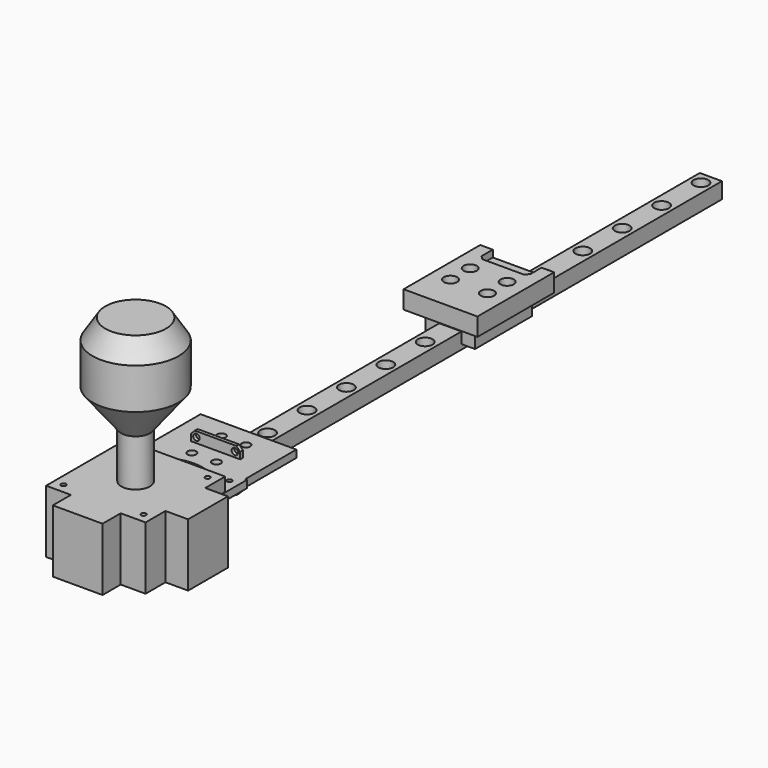
from build123d import *

# Parameters (mm, degrees)
SKETCH_W                = 9
SKETCH_H                = 250
PAD_DEPTH               = 6.5
SKETCH001_R             = 1.75
POCKET_DEPTH            = 6.5
LINEARPATTERN_COUNT     = 13
LINEARPATTERN_PITCH     = 20
SKETCH002_R             = 3
POCKET001_DEPTH         = 3.5
LINEARPATTERN001_COUNT  = 13
LINEARPATTERN001_PITCH  = 20
SKETCH005_W             = 20
SKETCH005_H             = 28.9
SKETCH005_R             = 1.75
PAD002_DEPTH            = 8
SKETCH003_R             = 1
PAD001_DEPTH            = 25.5
BODY003_PLACEMENT_ANGLE = 90
SKETCH010_R             = 1
SKETCH010_R_2           = 1.75
SKETCH010_R_3           = 18.5
PAD005_DEPTH            = 3
BODY004_PLACEMENT_ANGLE = 90
SKETCH016_W             = 30
SKETCH016_H             = 38.9
SKETCH016_R             = 1.75
SKETCH016_R_2           = 1.3
PAD010_DEPTH            = 7.3
SKETCH019_R             = 2.7
POCKET005_DEPTH         = 2.8
SKETCH017_R             = 1.3
PAD008_DEPTH            = 1.4
SKETCH018_W             = 3
SKETCH018_H             = 4.5
PAD009_DEPTH            = 1.2


with BuildPart() as protorail:
    # Sketch → Pad (new body)
    with BuildSketch(Plane.XY):
        with Locations((0, 125)):
            Rectangle(SKETCH_W, SKETCH_H)
    extrude(amount=-PAD_DEPTH)

    # Sketch001 → Pocket (cut)
    with BuildSketch(Plane.XY):
        with Locations((0, 5)):
            Circle(SKETCH001_R)
    pocket = extrude(amount=-POCKET_DEPTH, mode=Mode.SUBTRACT)

    # LinearPattern: Pocket ×13
    with Locations(*[(0, i * LINEARPATTERN_PITCH, 0) for i in range(1, LINEARPATTERN_COUNT)]):
        add(pocket, mode=Mode.SUBTRACT)

    # Sketch002 → Pocket001 (cut)
    with BuildSketch(Plane.XY):
        with Locations((0, 5)):
            Circle(SKETCH002_R)
    pocket001 = extrude(amount=-POCKET001_DEPTH, mode=Mode.SUBTRACT)

    # LinearPattern001: Pocket001 ×13
    with Locations(*[(0, i * LINEARPATTERN001_PITCH, 0) for i in range(1, LINEARPATTERN001_COUNT)]):
        add(pocket001, mode=Mode.SUBTRACT)

    # Sketch005 → Pad002 (join)
    with BuildSketch(Plane.XY.offset(-4.5)):
        with Locations((0, 132.225)):
            Rectangle(SKETCH005_W, SKETCH005_H)
        with Locations((-7.5, 137.225)):
            Circle(SKETCH005_R, mode=Mode.SUBTRACT)
        with Locations((7.5, 137.225)):
            Circle(SKETCH005_R, mode=Mode.SUBTRACT)
        with Locations((7.5, 127.225)):
            Circle(SKETCH005_R, mode=Mode.SUBTRACT)
        with Locations((-7.5, 127.225)):
            Circle(SKETCH005_R, mode=Mode.SUBTRACT)
    extrude(amount=PAD002_DEPTH)


with BuildPart() as joystick_place_holder:
    # Sketch003 → Pad001 (new body)
    with BuildSketch(Plane(origin=(0, 0, 0), x_dir=(0, 1, 0), z_dir=(0, 0, 1))):
        Polygon((20.2, 20.2), (20.2, -20.2), (-20.2, -20.2), (-20.2, -10.1), (-29.4, -10.1), (-29.4, 10.1), (-20.2, 10.1), (-20.2, 20.2), (-10.1, 20.2), (-10.1, 29.4), (10.1, 29.4), (10.1, 20.2), align=None)
        with Locations((-16.25, 16.25)):
            Circle(SKETCH003_R, mode=Mode.SUBTRACT)
        with Locations((16.25, 16.25)):
            Circle(SKETCH003_R, mode=Mode.SUBTRACT)
        with Locations((16.25, -16.25)):
            Circle(SKETCH003_R, mode=Mode.SUBTRACT)
        with Locations((-16.25, -16.25)):
            Circle(SKETCH003_R, mode=Mode.SUBTRACT)
    extrude(amount=PAD001_DEPTH)

    # Sketch004 → Revolution (revolve)
    with BuildSketch(Plane.XZ):
        Polygon((0, 84), (12.31, 84), (17.5, 75.9), (17.5, 59.3), (5.833333, 44.5), (5.833333, 12.75), (0, 12.75), align=None)
    revolve(axis=Axis((0, 0, 0), (0, 0, 1)))


with BuildPart() as joystick_place_holder_1:
    # Body003 placement: moved
    add(joystick_place_holder.part.moved(Location((0, -42.01, -15.5))).rotate(Axis((0, -42.01, -15.5), (0, 0, 1)), BODY003_PLACEMENT_ANGLE))


with BuildPart() as obj1:
    # Sketch010 (on ShapeBinder) → Pad005 (new body)
    with BuildSketch(Plane.XY.offset(3.5)):
        Polygon((-15, 151.675), (11, 151.675), (11, 152.425), (51.4, 152.425), (51.4, 112.025), (11, 112.025), (11, 112.775), (-15, 112.775), align=None)
        with Locations((14.95, 148.475)):
            Circle(SKETCH010_R, mode=Mode.SUBTRACT)
        with Locations((14.95, 115.975)):
            Circle(SKETCH010_R, mode=Mode.SUBTRACT)
        with Locations((47.45, 148.475)):
            Circle(SKETCH010_R, mode=Mode.SUBTRACT)
        with Locations((47.45, 115.975)):
            Circle(SKETCH010_R, mode=Mode.SUBTRACT)
        with Locations((7.5, 137.225)):
            Circle(SKETCH010_R_2, mode=Mode.SUBTRACT)
        with Locations((-7.5, 137.225)):
            Circle(SKETCH010_R_2, mode=Mode.SUBTRACT)
        with Locations((-7.5, 127.225)):
            Circle(SKETCH010_R_2, mode=Mode.SUBTRACT)
        with Locations((7.5, 127.225)):
            Circle(SKETCH010_R_2, mode=Mode.SUBTRACT)
        with Locations((31.2, 132.225)):
            Circle(SKETCH010_R_3, mode=Mode.SUBTRACT)
    extrude(amount=PAD005_DEPTH)


with BuildPart() as obj1_1:
    # Body004 placement: moved
    add(obj1.part.moved(Location((-132, 0, -2))).rotate(Axis((-132, 0, -2), (0, 0, -1)), BODY004_PLACEMENT_ANGLE))


with BuildPart() as obj2:
    # Sketch016 (on Face1 of ReferencePad007) → Pad010 (new body)
    with BuildSketch(Plane.XY.offset(3.5)):
        with Locations((0, 132.225)):
            Rectangle(SKETCH016_W, SKETCH016_H)
        with Locations((-7.5, 137.225)):
            Circle(SKETCH016_R, mode=Mode.SUBTRACT)
        with Locations((-7.5, 127.225)):
            Circle(SKETCH016_R, mode=Mode.SUBTRACT)
        with Locations((7.5, 137.225)):
            Circle(SKETCH016_R, mode=Mode.SUBTRACT)
        with Locations((7.5, 127.225)):
            Circle(SKETCH016_R, mode=Mode.SUBTRACT)
        with Locations((7.7, 146.675)):
            Circle(SKETCH016_R_2, mode=Mode.SUBTRACT)
        with Locations((-7.7, 146.675)):
            Circle(SKETCH016_R_2, mode=Mode.SUBTRACT)
    extrude(amount=PAD010_DEPTH)

    # Sketch019 (on Face12 of Pad010) → Pocket005 (cut)
    with BuildSketch(Plane.XY.offset(10.8)):
        with Locations((7.5, 137.225)):
            Circle(SKETCH019_R)
        with Locations((-7.5, 137.225)):
            Circle(SKETCH019_R)
        with Locations((7.5, 127.225)):
            Circle(SKETCH019_R)
        with Locations((-7.5, 127.225)):
            Circle(SKETCH019_R)
        Polygon((-8.411624, 144.475), (8.411624, 144.475), (9.9, 145.963376), (9.9, 151.675), (-9.9, 151.675), (-9.9, 145.963376), align=None)
    extrude(amount=-POCKET005_DEPTH, mode=Mode.SUBTRACT)


with BuildPart() as y_sensor:
    # Sketch017 → Pad008 (new body)
    with BuildSketch(Plane.XZ):
        Polygon((-8.411624, 8.8), (-10, 7.211624), (-10, -7.211624), (-8.411624, -8.8), (8.411624, -8.8), (10, -7.211624), (10, 7.211624), (8.411624, 8.8), align=None)
        with Locations((7.8, 6.6)):
            Circle(SKETCH017_R, mode=Mode.SUBTRACT)
        with Locations((-7.8, 6.6)):
            Circle(SKETCH017_R, mode=Mode.SUBTRACT)
    extrude(amount=PAD008_DEPTH)

    # Sketch018 (on Face12 of Pad008) → Pad009 (join)
    with BuildSketch(Plane.XZ.offset(1.4)):
        with Locations((0, 1.25)):
            Rectangle(SKETCH018_W, SKETCH018_H)
    extrude(amount=PAD009_DEPTH)


solid = Compound([protorail.part, joystick_place_holder_1.part, obj1_1.part, obj2.part, y_sensor.part])
